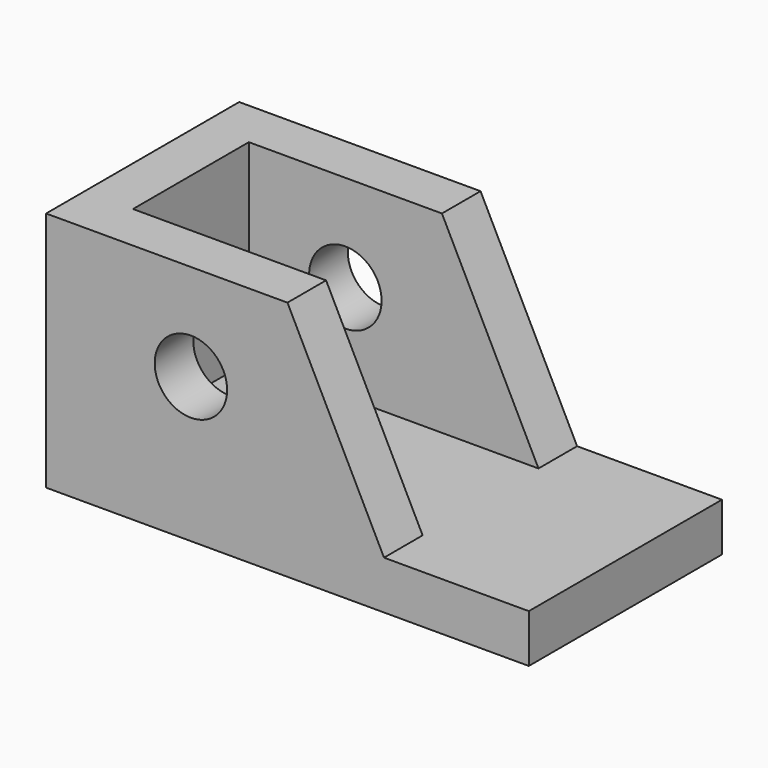
from build123d import *

# Parameters (mm, degrees)
F0_W     = 100
F0_H     = 50
F1_DEPTH = 50
F2_W     = 90
F2_H     = 30
F3_DEPTH = 40
F4_R     = 7.5
F5_DEPTH = 50.001
F7_DEPTH = 50.001


with BuildPart() as f1:
    # F0 (on Front) → F1 (new body)
    with BuildSketch(Plane.XZ):
        with Locations((50, 25)):
            Rectangle(F0_W, F0_H)
    extrude(amount=-F1_DEPTH)

    # F2 (on face) → F3 (cut)
    with BuildSketch(Plane.XY.offset(50)):
        with Locations((55, 25)):
            Rectangle(F2_W, F2_H)
    extrude(amount=-F3_DEPTH, mode=Mode.SUBTRACT)

    # F4 (on face) → F5 (cut, through all)
    with BuildSketch(Plane.XZ):
        with Locations((30, 30)):
            Circle(F4_R)
    extrude(amount=-F5_DEPTH, mode=Mode.SUBTRACT)

    # F6 (on face) → F7 (cut, through all)
    with BuildSketch(Plane.XZ):
        Polygon((100, 50), (50, 50), (70, 10), (100, 10), align=None)
    extrude(amount=-F7_DEPTH, mode=Mode.SUBTRACT)


solid = f1.part
